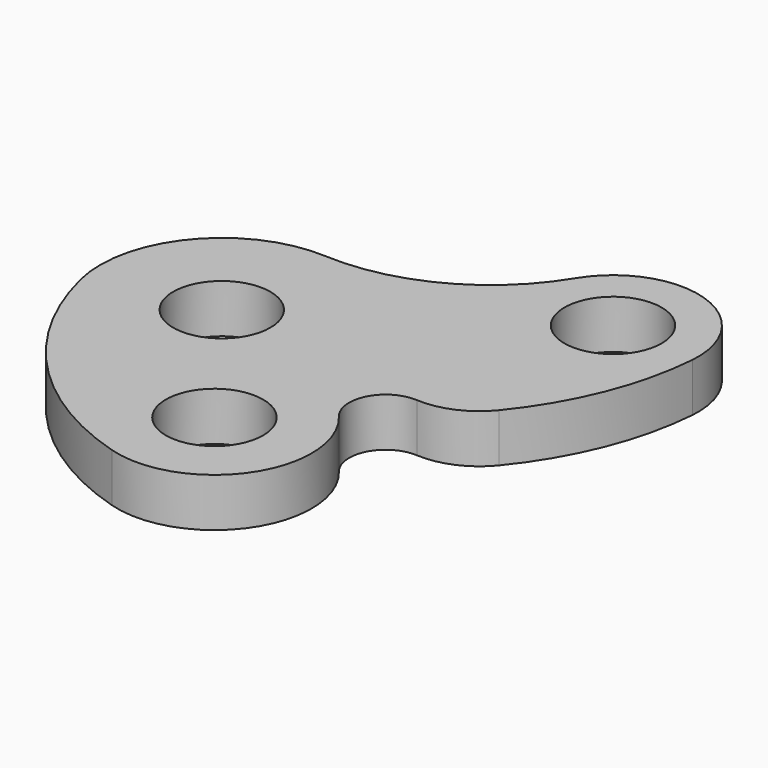
from build123d import *

# Parameters (mm, degrees)
F0_R     = 10
F1_DEPTH = 10


with BuildPart() as f1:
    # F0 (on Top) → F1 (new body)
    with BuildSketch(Plane.XY):
        with BuildLine():
            ThreePointArc((69.941986, 33.576228), (57.909572, 51.642912), (37.554206, 44.103474))
            ThreePointArc((37.554206, 44.103474), (22.067235, 29.538399), (1.304766, 24.965929))
            ThreePointArc((1.304766, 24.965929), (-19.255297, 15.944702), (-24.284847, -5.93685))
            ThreePointArc((-24.284847, -5.93685), (-9.512511, -33.001447), (16.750607, -49.155795))
            ThreePointArc((16.750607, -49.155795), (39.169931, -41.050494), (37.904534, -17.244596))
            ThreePointArc((37.904534, -17.244596), (36.990811, -9.071889), (44.120823, -4.974213))
            ThreePointArc((44.120823, -4.974213), (51.030762, -3.734261), (56.619703, 0.514089))
            ThreePointArc((56.619703, 0.514089), (65.792763, 16.032989), (69.941986, 33.576228))
        make_face()
        Circle(F0_R, mode=Mode.SUBTRACT)
        with Locations((22.5, -30)):
            Circle(F0_R, mode=Mode.SUBTRACT)
        with Locations((52.5, 35)):
            Circle(F0_R, mode=Mode.SUBTRACT)
    extrude(amount=F1_DEPTH)


solid = f1.part
